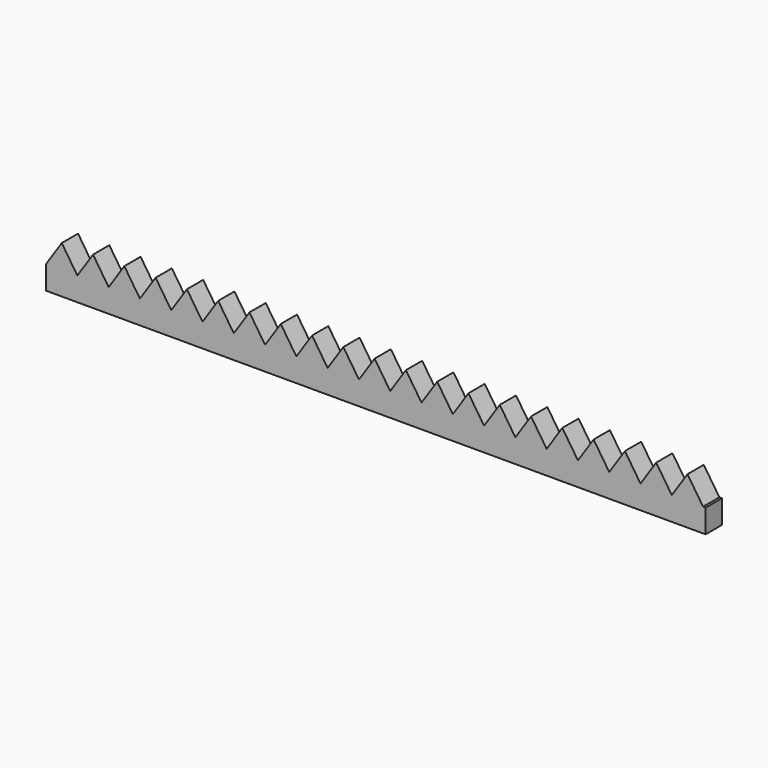
from build123d import *

# Parameters (mm, degrees)
F1_DEPTH = 10.9728


with BuildPart() as f1:
    # F0 (on Front) → F1 (new body)
    with BuildSketch(Plane.XZ):
        Polygon((-177.6711943626, -10.0771774247), (-177.6711943626, -22.7771774247), (177.9288056374, -22.7771774247), (177.9288056374, -10.0771774247), (176.5609765906, -10.0771774247), (159.6928365906, -10.0771774247), (159.6916056374, -10.0771774247), (142.8246965906, -10.0771774247), (142.8234656374, -10.0771774247), (125.9565565906, -10.0771774247), (125.9553256374, -10.0771774247), (109.0884165906, -10.0771774247), (109.0871856374, -10.0771774247), (92.2202765906, -10.0771774247), (92.2190456374, -10.0771774247), (75.3521365906, -10.0771774247), (75.3509056374, -10.0771774247), (58.4839965906, -10.0771774247), (58.4827656374, -10.0771774247), (41.6158565906, -10.0771774247), (41.6146256374, -10.0771774247), (24.7477165906, -10.0771774247), (24.7464856374, -10.0771774247), (7.8795765906, -10.0771774247), (7.8783456374, -10.0771774247), (-8.9885634094, -10.0771774247), (-8.9897943626, -10.0771774247), (-25.8567034094, -10.0771774247), (-25.8579343626, -10.0771774247), (-42.7248434094, -10.0771774247), (-42.7260743626, -10.0771774247), (-59.5929834094, -10.0771774247), (-59.5942143626, -10.0771774247), (-76.4611234094, -10.0771774247), (-76.4623543626, -10.0771774247), (-93.3292634094, -10.0771774247), (-93.3304943626, -10.0771774247), (-110.1974034094, -10.0771774247), (-110.1986343626, -10.0771774247), (-127.0655434094, -10.0771774247), (-127.0667743626, -10.0771774247), (-143.9336834094, -10.0771774247), (-143.9349143626, -10.0771774247), (-160.8018234094, -10.0771774247), (-160.8030543626, -10.0771774247), align=None)
        Polygon((-169.2260503769, 2.6228225753), (-177.6711943626, -10.0771774247), (-160.8030543626, -10.0771774247), (-160.8024381229, -10.0762507093), align=None)
        Polygon((-160.8024381229, -10.0762507093), (-160.8030543626, -10.0771774247), (-160.8018234094, -10.0771774247), align=None)
        Polygon((159.6928365906, -10.0771774247), (176.5609765906, -10.0771774247), (168.1367496231, 2.6228225753), (159.6922218771, -10.0762507093), align=None)
        Polygon((-160.8024381229, -10.0762507093), (-160.8018234094, -10.0771774247), (-143.9349143626, -10.0771774247), (-143.9342981229, -10.0762507093), (-152.3579103769, 2.6228225753), align=None)
        Polygon((159.6916056374, -10.0771774247), (159.6928365906, -10.0771774247), (159.6922218771, -10.0762507093), align=None)
        Polygon((-143.9342981229, -10.0762507093), (-143.9349143626, -10.0771774247), (-143.9336834094, -10.0771774247), align=None)
        Polygon((142.8246965906, -10.0771774247), (159.6916056374, -10.0771774247), (159.6922218771, -10.0762507093), (151.2686096231, 2.6228225753), (142.8240818771, -10.0762507093), align=None)
        Polygon((-143.9342981229, -10.0762507093), (-143.9336834094, -10.0771774247), (-127.0667743626, -10.0771774247), (-127.0661581229, -10.0762507093), (-135.4897703769, 2.6228225753), align=None)
        Polygon((142.8234656374, -10.0771774247), (142.8246965906, -10.0771774247), (142.8240818771, -10.0762507093), align=None)
        Polygon((-127.0661581229, -10.0762507093), (-127.0667743626, -10.0771774247), (-127.0655434094, -10.0771774247), align=None)
        Polygon((125.9565565906, -10.0771774247), (142.8234656374, -10.0771774247), (142.8240818771, -10.0762507093), (134.4004696231, 2.6228225753), (125.9559418771, -10.0762507093), align=None)
        Polygon((-127.0661581229, -10.0762507093), (-127.0655434094, -10.0771774247), (-110.1986343626, -10.0771774247), (-110.1980181229, -10.0762507093), (-118.6216303769, 2.6228225753), align=None)
        Polygon((125.9553256374, -10.0771774247), (125.9565565906, -10.0771774247), (125.9559418771, -10.0762507093), align=None)
        Polygon((-110.1980181229, -10.0762507093), (-110.1986343626, -10.0771774247), (-110.1974034094, -10.0771774247), align=None)
        Polygon((109.0884165906, -10.0771774247), (125.9553256374, -10.0771774247), (125.9559418771, -10.0762507093), (117.5323296231, 2.6228225753), (109.0878018771, -10.0762507093), align=None)
        Polygon((-110.1980181229, -10.0762507093), (-110.1974034094, -10.0771774247), (-93.3304943626, -10.0771774247), (-93.3298781229, -10.0762507093), (-101.7534903769, 2.6228225753), align=None)
        Polygon((109.0871856374, -10.0771774247), (109.0884165906, -10.0771774247), (109.0878018771, -10.0762507093), align=None)
        Polygon((-93.3298781229, -10.0762507093), (-93.3304943626, -10.0771774247), (-93.3292634094, -10.0771774247), align=None)
        Polygon((92.2202765906, -10.0771774247), (109.0871856374, -10.0771774247), (109.0878018771, -10.0762507093), (100.6641896231, 2.6228225753), (92.2196618771, -10.0762507093), align=None)
        Polygon((-93.3298781229, -10.0762507093), (-93.3292634094, -10.0771774247), (-76.4623543626, -10.0771774247), (-76.4617381229, -10.0762507093), (-84.8853503769, 2.6228225753), align=None)
        Polygon((92.2190456374, -10.0771774247), (92.2202765906, -10.0771774247), (92.2196618771, -10.0762507093), align=None)
        Polygon((-76.4617381229, -10.0762507093), (-76.4623543626, -10.0771774247), (-76.4611234094, -10.0771774247), align=None)
        Polygon((75.3521365906, -10.0771774247), (92.2190456374, -10.0771774247), (92.2196618771, -10.0762507093), (83.7960496231, 2.6228225753), (75.3515218771, -10.0762507093), align=None)
        Polygon((-76.4617381229, -10.0762507093), (-76.4611234094, -10.0771774247), (-59.5942143626, -10.0771774247), (-59.5935981229, -10.0762507093), (-68.0172103769, 2.6228225753), align=None)
        Polygon((75.3509056374, -10.0771774247), (75.3521365906, -10.0771774247), (75.3515218771, -10.0762507093), align=None)
        Polygon((-59.5935981229, -10.0762507093), (-59.5942143626, -10.0771774247), (-59.5929834094, -10.0771774247), align=None)
        Polygon((58.4839965906, -10.0771774247), (75.3509056374, -10.0771774247), (75.3515218771, -10.0762507093), (66.9279096231, 2.6228225753), (58.4833818771, -10.0762507093), align=None)
        Polygon((-59.5935981229, -10.0762507093), (-59.5929834094, -10.0771774247), (-42.7260743626, -10.0771774247), (-42.7254581229, -10.0762507093), (-51.1490703769, 2.6228225753), align=None)
        Polygon((58.4827656374, -10.0771774247), (58.4839965906, -10.0771774247), (58.4833818771, -10.0762507093), align=None)
        Polygon((-42.7254581229, -10.0762507093), (-42.7260743626, -10.0771774247), (-42.7248434094, -10.0771774247), align=None)
        Polygon((41.6158565906, -10.0771774247), (58.4827656374, -10.0771774247), (58.4833818771, -10.0762507093), (50.0597696231, 2.6228225753), (41.6152418771, -10.0762507093), align=None)
        Polygon((-42.7254581229, -10.0762507093), (-42.7248434094, -10.0771774247), (-25.8579343626, -10.0771774247), (-25.8573181229, -10.0762507093), (-34.2809303769, 2.6228225753), align=None)
        Polygon((41.6146256374, -10.0771774247), (41.6158565906, -10.0771774247), (41.6152418771, -10.0762507093), align=None)
        Polygon((-25.8573181229, -10.0762507093), (-25.8579343626, -10.0771774247), (-25.8567034094, -10.0771774247), align=None)
        Polygon((24.7477165906, -10.0771774247), (41.6146256374, -10.0771774247), (41.6152418771, -10.0762507093), (33.1916296231, 2.6228225753), (24.7471018771, -10.0762507093), align=None)
        Polygon((-25.8573181229, -10.0762507093), (-25.8567034094, -10.0771774247), (-8.9897943626, -10.0771774247), (-8.9891781229, -10.0762507093), (-17.4127903769, 2.6228225753), align=None)
        Polygon((24.7464856374, -10.0771774247), (24.7477165906, -10.0771774247), (24.7471018771, -10.0762507093), align=None)
        Polygon((-8.9891781229, -10.0762507093), (-8.9897943626, -10.0771774247), (-8.9885634094, -10.0771774247), align=None)
        Polygon((7.8795765906, -10.0771774247), (24.7464856374, -10.0771774247), (24.7471018771, -10.0762507093), (16.3234896231, 2.6228225753), (7.8789618771, -10.0762507093), align=None)
        Polygon((-8.9891781229, -10.0762507093), (-8.9885634094, -10.0771774247), (7.8783456374, -10.0771774247), (7.8789618771, -10.0762507093), (-0.5446503769, 2.6228225753), align=None)
        Polygon((7.8783456374, -10.0771774247), (7.8795765906, -10.0771774247), (7.8789618771, -10.0762507093), align=None)
    extrude(amount=F1_DEPTH)


solid = f1.part
